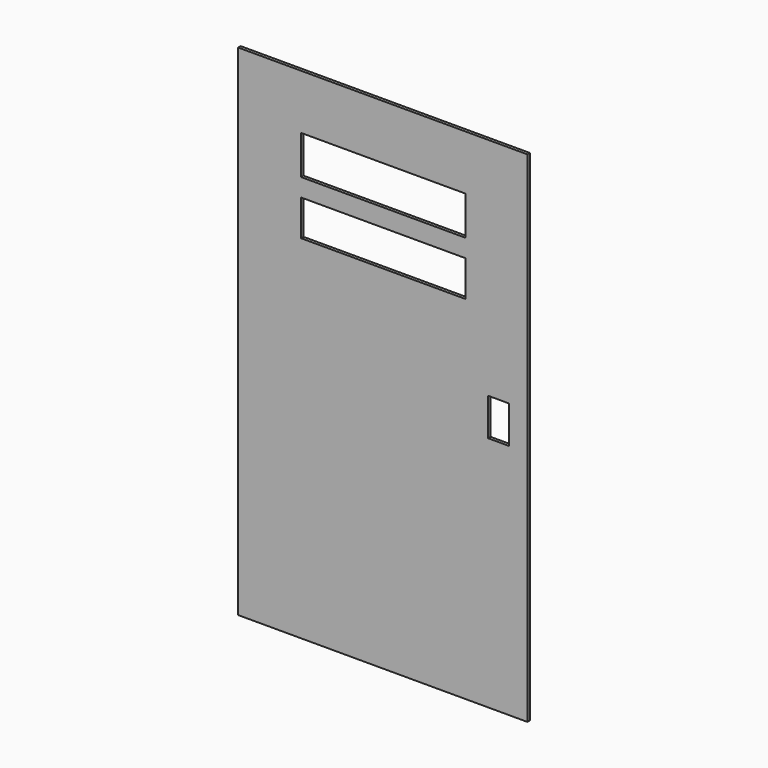
from build123d import *

# Parameters (mm, degrees)
F0_W     = 279.4
F0_H     = 482.6
F0_W_2   = 158.992832
F0_H_2   = 34.689348
F0_W_3   = 20.235447
F0_H_3   = 36.134735
F0_H_4   = 37.580125
F1_DEPTH = 3


with BuildPart() as f1:
    # F0 (on Front) → F1 (new body)
    with BuildSketch(Plane.XZ):
        Rectangle(F0_W, F0_H)
        with Locations((0.502774, 116.221943)):
            Rectangle(F0_W_2, F0_H_2, mode=Mode.SUBTRACT)
        with Locations((111.797761, 5.649656)):
            Rectangle(F0_W_3, F0_H_3, mode=Mode.SUBTRACT)
        with Locations((0.502774, 169.701343)):
            Rectangle(F0_W_2, F0_H_4, mode=Mode.SUBTRACT)
    extrude(amount=F1_DEPTH)


solid = f1.part
